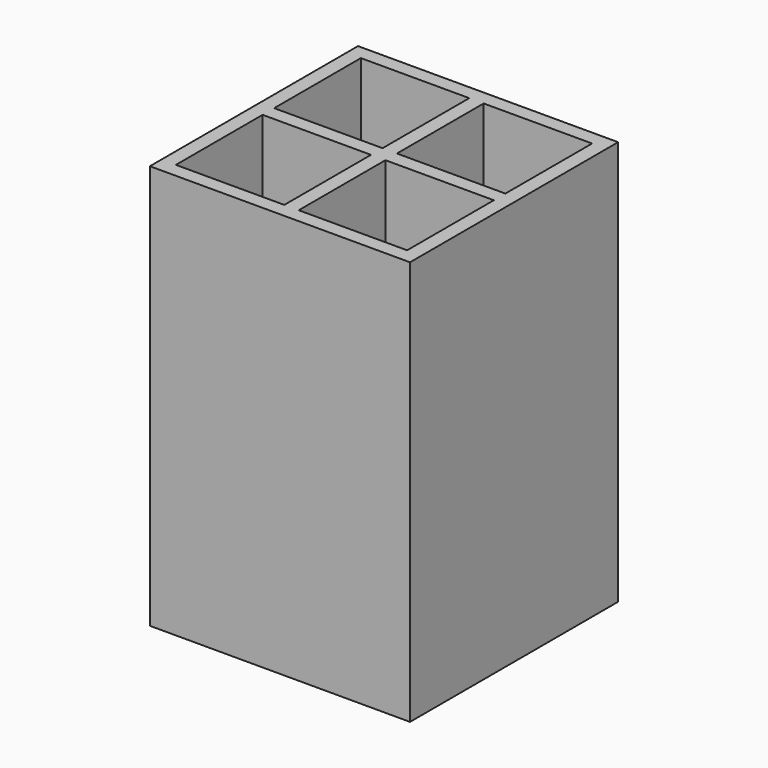
from build123d import *

# Parameters (mm, degrees)
F0_W     = 57.15
F0_H     = 57.15
F1_DEPTH = 88.9
F2_W     = 23.8125
F2_H     = 23.8125
F2_W_2   = 23.8252
F3_DEPTH = 85.725


with BuildPart() as f1:
    # F0 (on Top) → F1 (new body)
    with BuildSketch(Plane.XY):
        Rectangle(F0_W, F0_H)
    extrude(amount=F1_DEPTH)

    # F2 (on face) → F3 (cut)
    with BuildSketch(Plane.XY.offset(88.9)):
        with Locations((-13.49375, 13.49375)):
            Rectangle(F2_W, F2_H)
        with Locations((-13.49375, -13.49375)):
            Rectangle(F2_W, F2_H)
        with Locations((13.49375, -13.49375)):
            Rectangle(F2_W, F2_H)
        with Locations((13.4874, 13.49375)):
            Rectangle(F2_W_2, F2_H)
    extrude(amount=-F3_DEPTH, mode=Mode.SUBTRACT)


solid = f1.part
